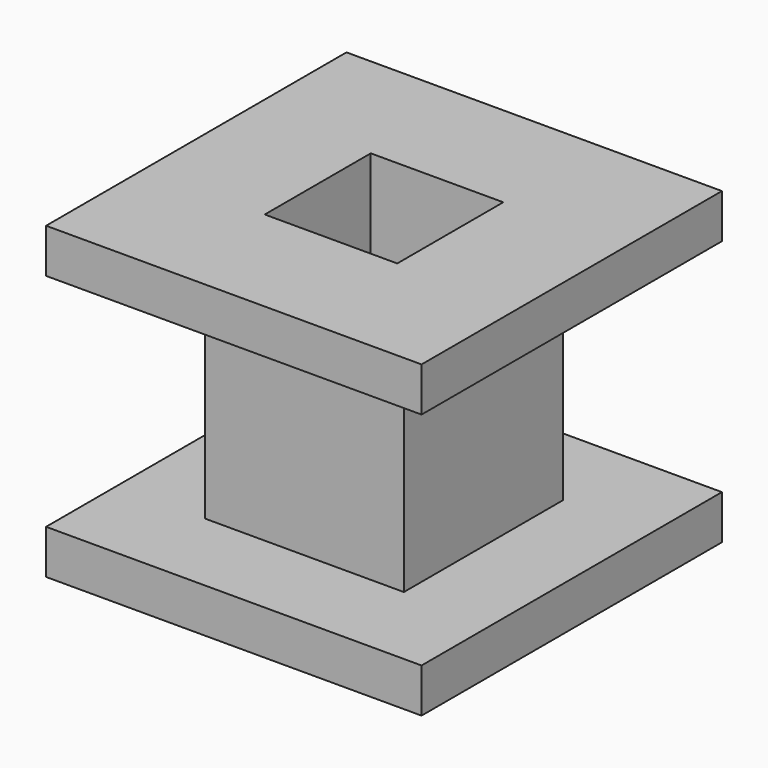
from build123d import *

# Parameters (mm, degrees)
F0_W     = 85
F0_H     = 85
F1_DEPTH = 10
F2_W     = 45
F2_H     = 45
F3_DEPTH = 50
F4_W     = 85
F4_H     = 85
F5_DEPTH = 10
F6_W     = 30
F6_H     = 30
F7_DEPTH = 70


with BuildPart() as f1:
    # F0 (on Top) → F1 (new body)
    with BuildSketch(Plane.XY):
        Rectangle(F0_W, F0_H)
    extrude(amount=F1_DEPTH)

    # F2 (on face) → F3 (join)
    with BuildSketch(Plane.XY.offset(10)):
        Rectangle(F2_W, F2_H)
    extrude(amount=F3_DEPTH)

    # F4 (on face) → F5 (join)
    with BuildSketch(Plane.XY.offset(60)):
        Rectangle(F4_W, F4_H)
    extrude(amount=F5_DEPTH)

    # F6 (on face) → F7 (cut)
    with BuildSketch(Plane.XY.offset(70)):
        Rectangle(F6_W, F6_H)
    extrude(amount=-F7_DEPTH, mode=Mode.SUBTRACT)


solid = f1.part
